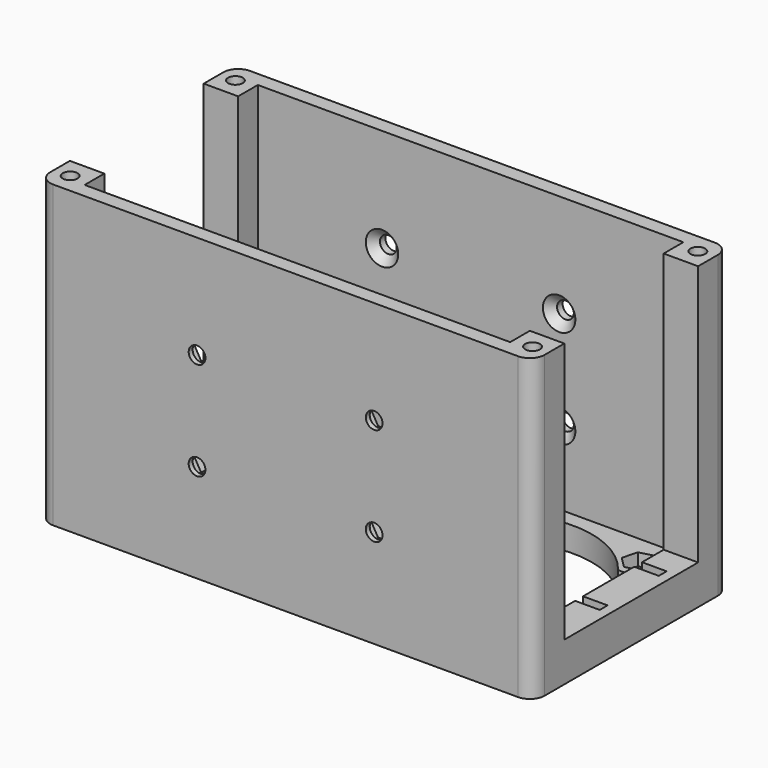
from build123d import *

# Parameters (mm, degrees)
SKETCH_W        = 100.5
SKETCH_H        = 50
SKETCH_R        = 19
SKETCH_R_2      = 1.7
SKETCH_W_2      = 20
SKETCH_H_2      = 40
PAD_DEPTH       = 8
SKETCH001_W     = 86.5
SKETCH001_H     = 44
POCKET_DEPTH    = 3
SKETCH002_W     = 96.5
SKETCH002_H     = 2
POCKET001_DEPTH = 4
POCKET002_DEPTH = 2.5
PAD001_DEPTH    = 53
SKETCH005_R     = 1.5
POCKET003_DEPTH = 30
SKETCH006_R     = 1.7
POCKET004_DEPTH = 50.001
POCKET006_DEPTH = 2
FILLET_R        = 3
FILLET001_R     = 3
FILLET002_R     = 3
FILLET003_R     = 3
CHAMFER_SIZE    = 1.6
CHAMFER001_SIZE = 1.6
CHAMFER002_SIZE = 1.6
CHAMFER003_SIZE = 1.6


with BuildPart() as part:
    # Sketch → Pad (new body)
    with BuildSketch(Plane.XY):
        Rectangle(SKETCH_W, SKETCH_H)
        with Locations((23.25, 0)):
            Circle(SKETCH_R, mode=Mode.SUBTRACT)
        with Locations((7.25, 16)):
            Circle(SKETCH_R_2, mode=Mode.SUBTRACT)
        with Locations((39.25, 16)):
            Circle(SKETCH_R_2, mode=Mode.SUBTRACT)
        with Locations((39.25, -16)):
            Circle(SKETCH_R_2, mode=Mode.SUBTRACT)
        with Locations((7.25, -16)):
            Circle(SKETCH_R_2, mode=Mode.SUBTRACT)
        with Locations((-8, 16)):
            Circle(SKETCH_R_2, mode=Mode.SUBTRACT)
        with Locations((-8, -16)):
            Circle(SKETCH_R_2, mode=Mode.SUBTRACT)
        with Locations((-24.25, 0)):
            Rectangle(SKETCH_W_2, SKETCH_H_2, mode=Mode.SUBTRACT)
    extrude(amount=PAD_DEPTH)

    # Sketch001 → Pocket (cut)
    with BuildSketch(Plane.XY.offset(8)):
        Rectangle(SKETCH001_W, SKETCH001_H)
    extrude(amount=-POCKET_DEPTH, mode=Mode.SUBTRACT)

    # Sketch002 → Pocket001 (cut)
    with BuildSketch(Plane.XY.offset(8)):
        with Locations((0, 10.5)):
            Rectangle(SKETCH002_W, SKETCH002_H)
        with Locations((0, -4.5)):
            Rectangle(SKETCH002_W, SKETCH002_H)
    extrude(amount=-POCKET001_DEPTH, mode=Mode.SUBTRACT)

    # Sketch003 → Pocket002 (cut)
    with BuildSketch(Plane.XY.offset(5)):
        Polygon((6.428139, 19.067226), (4.182774, 16.821861), (5.004634, 13.754634), (8.071861, 12.932774), (10.317226, 15.178139), (9.495366, 18.245366), align=None)
        Polygon((40.071861, 19.067226), (37.004634, 18.245366), (36.182774, 15.178139), (38.428139, 12.932774), (41.495366, 13.754634), (42.317226, 16.821861), align=None)
        Polygon((5.004634, -13.754634), (4.182774, -16.821861), (6.428139, -19.067226), (9.495366, -18.245366), (10.317226, -15.178139), (8.071861, -12.932774), align=None)
        Polygon((36.182774, -15.178139), (37.004634, -18.245366), (40.071861, -19.067226), (42.317226, -16.821861), (41.495366, -13.754634), (38.428139, -12.932774), align=None)
        Polygon((-9.587713, 18.75), (-11.175426, 16), (-9.587713, 13.25), (-6.412287, 13.25), (-4.824574, 16), (-6.412287, 18.75), align=None)
        Polygon((-9.587713, -13.25), (-11.175426, -16), (-9.587713, -18.75), (-6.412287, -18.75), (-4.824574, -16), (-6.412287, -13.25), align=None)
    extrude(amount=-POCKET002_DEPTH, mode=Mode.SUBTRACT)

    # Sketch004 → Pad001 (new body)
    with BuildSketch(Plane.XY.offset(8)):
        Polygon((-50.25, 25), (50.25, 25), (50.25, 17), (43.25, 17), (43.25, 22), (-43.25, 22), (-43.25, 17), (-50.25, 17), align=None)
        Polygon((50.25, -17), (50.25, -25), (-50.25, -25), (-50.25, -17), (-43.25, -17), (-43.25, -22), (43.25, -22), (43.25, -17), align=None)
    extrude(amount=PAD001_DEPTH)

    # Sketch005 → Pocket003 (cut)
    with BuildSketch(Plane.XY.offset(61)):
        with Locations((-47, 21)):
            Circle(SKETCH005_R)
        with Locations((47, 21)):
            Circle(SKETCH005_R)
        with Locations((47, -21)):
            Circle(SKETCH005_R)
        with Locations((-47, -21)):
            Circle(SKETCH005_R)
    extrude(amount=-POCKET003_DEPTH, mode=Mode.SUBTRACT)

    # Sketch006 → Pocket004 (cut, through all)
    with BuildSketch(Plane(origin=(0, 25, 0), x_dir=(-1, 0, 0), z_dir=(0, 1, 0))):
        with Locations((-18, 20)):
            Circle(SKETCH006_R)
        with Locations((18, 20)):
            Circle(SKETCH006_R)
        with Locations((-18, 40)):
            Circle(SKETCH006_R)
        with Locations((18, 40)):
            Circle(SKETCH006_R)
    extrude(amount=-POCKET004_DEPTH, mode=Mode.SUBTRACT)

    # Sketch008 → Pocket006 (cut)
    with BuildSketch(Plane(origin=(0, -22, 0), x_dir=(-1, 0, 0), z_dir=(0, 1, 0))):
        Polygon((-14.824574, 20), (-16.412287, 22.75), (-19.587713, 22.75), (-21.175426, 20), (-19.587713, 17.25), (-16.412287, 17.25), align=None)
        Polygon((21.175426, 20), (19.587713, 22.75), (16.412287, 22.75), (14.824574, 20), (16.412287, 17.25), (19.587713, 17.25), align=None)
        Polygon((-16.412287, 37.25), (-14.824574, 40), (-16.412287, 42.75), (-19.587713, 42.75), (-21.175426, 40), (-19.587713, 37.25), align=None)
        Polygon((19.587713, 37.25), (21.175426, 40), (19.587713, 42.75), (16.412287, 42.75), (14.824574, 40), (16.412287, 37.25), align=None)
    extrude(amount=-POCKET006_DEPTH, mode=Mode.SUBTRACT)

    # Fillet
    fillet_edges = [part.edges().sort_by_distance(p)[0] for p in [
        (-50.25, 25, 34.5),
    ]]
    fillet(fillet_edges, radius=FILLET_R)

    # Fillet001
    fillet001_edges = [part.edges().sort_by_distance(p)[0] for p in [
        (-50.25, -25, 34.5),
    ]]
    fillet(fillet001_edges, radius=FILLET001_R)

    # Fillet002
    fillet002_edges = [part.edges().sort_by_distance(p)[0] for p in [
        (50.25, 25, 34.5),
    ]]
    fillet(fillet002_edges, radius=FILLET002_R)

    # Fillet003
    fillet003_edges = [part.edges().sort_by_distance(p)[0] for p in [
        (50.25, -25, 34.5),
    ]]
    fillet(fillet003_edges, radius=FILLET003_R)

    # Chamfer
    chamfer_edges = [part.edges().sort_by_distance(p)[0] for p in [
        (19.7, 22, 40),
    ]]
    chamfer(chamfer_edges, length=CHAMFER_SIZE)

    # Chamfer001
    chamfer001_edges = [part.edges().sort_by_distance(p)[0] for p in [
        (-16.3, 22, 40),
    ]]
    chamfer(chamfer001_edges, length=CHAMFER001_SIZE)

    # Chamfer002
    chamfer002_edges = [part.edges().sort_by_distance(p)[0] for p in [
        (-16.3, 22, 20),
    ]]
    chamfer(chamfer002_edges, length=CHAMFER002_SIZE)

    # Chamfer003
    chamfer003_edges = [part.edges().sort_by_distance(p)[0] for p in [
        (19.7, 22, 20),
    ]]
    chamfer(chamfer003_edges, length=CHAMFER003_SIZE)


solid = part.part
